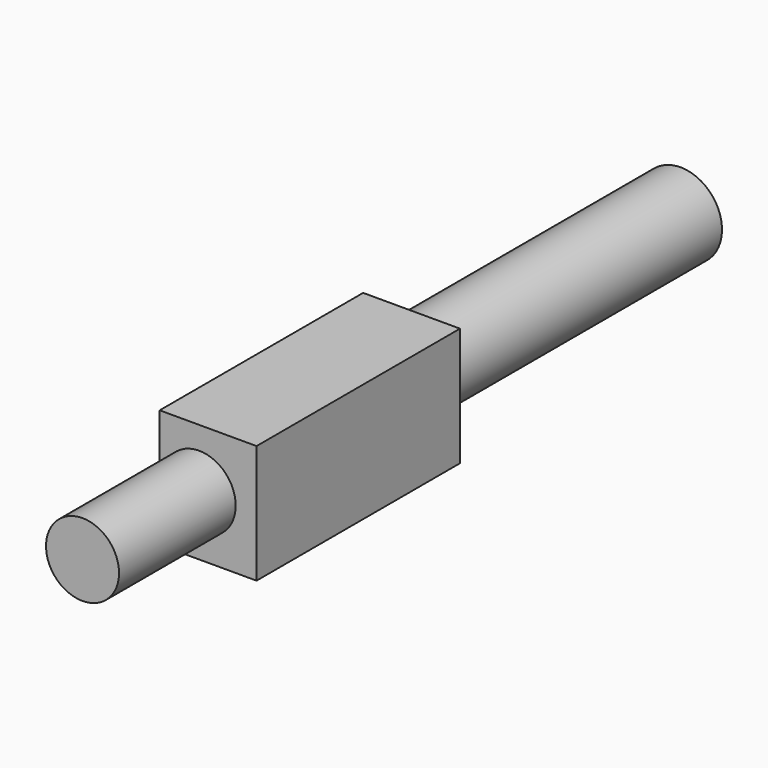
from build123d import *

# Parameters (mm, degrees)
F0_W       = 41.4983332157
F0_H       = 50.7746972144
F0_R       = 9.7686704189
F1_DEPTH   = 62.484
F2_R       = 15.6433873562
F1_FACE1_W = 41.4983332157
F1_FACE1_H = 50.7746972144
F1_FACE1_R = 9.7686704189
F3_DEPTH   = 108.966
F4_R       = 17.7535536274
F5_DEPTH   = 148.844


with BuildPart() as f1:
    # F0 (on Front) → F1 (new body)
    with BuildSketch(Plane.XZ):
        with Locations((-87.555155158, -25.3873486072)):
            Rectangle(F0_W, F0_H)
        with Locations((-91.3773775101, -25.3873486072)):
            Circle(F0_R, mode=Mode.SUBTRACT)
    extrude(amount=-F1_DEPTH)

    # F2 (on face) + F1_face1 (on face) → F3 (join)
    with BuildSketch(Plane.XZ):
        with Locations((-91.3773775101, -25.3873486072)):
            Circle(F2_R)
    with BuildSketch(Plane(origin=(-86.9211204596, 62.484, -25.3873486072), x_dir=(1, 0, 0), z_dir=(0, 1, 0))):
        with Locations((-0.6340346985, 0)):
            Rectangle(F1_FACE1_W, F1_FACE1_H)
        with Locations((-4.4562570505, 0)):
            Circle(F1_FACE1_R, mode=Mode.SUBTRACT)
    extrude(amount=F3_DEPTH, dir=(0, -1, 0))

    # F4 (on face) → F5 (join)
    with BuildSketch(Plane(origin=(0, 62.484, 0), x_dir=(-1, 0, 0), z_dir=(0, 1, 0))):
        with Locations((91.3773775101, -25.3873486072)):
            Circle(F4_R)
    extrude(amount=F5_DEPTH)


solid = f1.part
